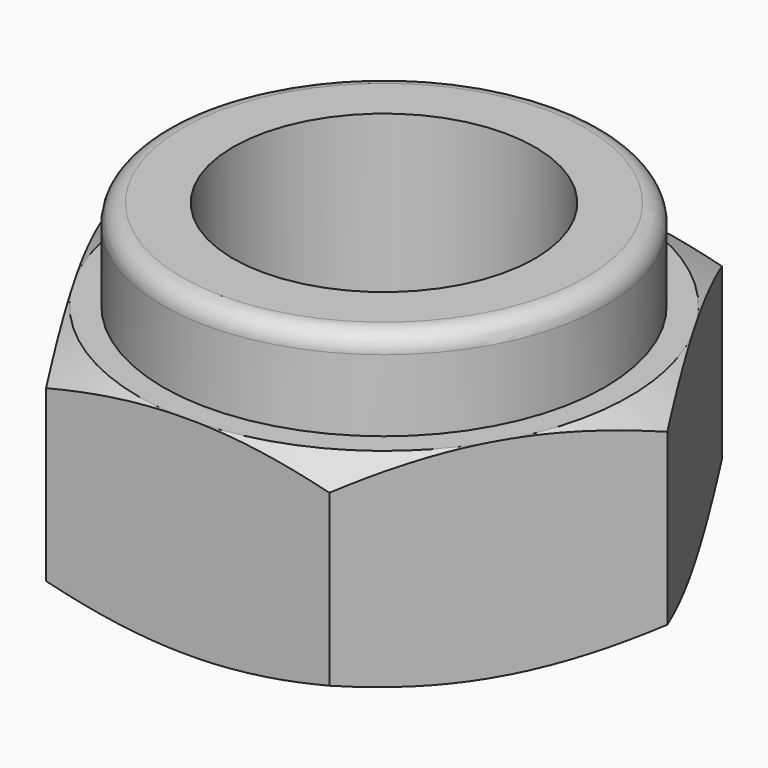
from build123d import *

# Parameters (mm, degrees)
SKETCH024_R = 4
PAD_DEPTH   = 5.5


with BuildPart() as part:
    # Sketch024 → Pad (new body)
    with BuildSketch(Plane.XY):
        Polygon((7.5055534995, 0), (3.7527767497, 6.5), (-3.7527767497, 6.5), (-7.5055534995, 0), (-3.7527767497, -6.5), (3.7527767497, -6.5), align=None)
        Circle(SKETCH024_R, mode=Mode.SUBTRACT)
    extrude(amount=PAD_DEPTH)

    # Sketch025 → Revolution005 (revolve)
    with BuildSketch(Plane.XZ):
        with BuildLine():
            Line((4, 5.5), (5.85, 5.5))
            Line((5.85, 5.5), (5.85, 7.4))
            ThreePointArc((5.85, 7.4), (5.7035533906, 7.7535533906), (5.35, 7.9))
            Line((5.35, 7.9), (4, 7.9))
            Line((4, 7.9), (4, 5.5))
        make_face()
    revolve(axis=Axis((0, 0, 0), (0, 0, 1)))

    # Sketch026 → Groove (revolve, cut)
    with BuildSketch(Plane.XZ):
        Polygon((7.5055534995, 5.5), (6.5055534995, 5.5), (7.5055534995, 5), align=None)
        Polygon((7.5055534995, 0), (6.5055534995, 0), (7.5055534995, 0.5), align=None)
    revolve(axis=Axis((0, 0, 0), (0, 0, 1)), mode=Mode.SUBTRACT)


solid = part.part
